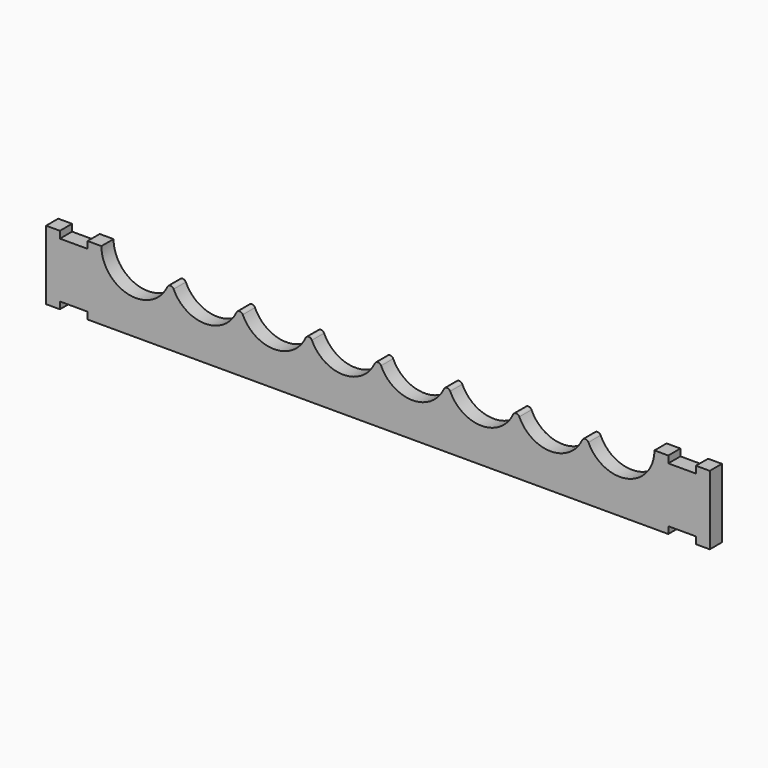
from build123d import *

# Parameters (mm, degrees)
F1_DEPTH = 22


with BuildPart() as f1:
    # F0 (on Front) → F1 (new body)
    with BuildSketch(Plane.XZ):
        with BuildLine():
            Line((460, -50), (480, -50))
            Line((480, -50), (480, 50))
            Line((480, 50), (460, 50))
            Line((460, 50), (460, 40))
            Line((460, 40), (420, 40))
            Line((420, 40), (420, 50))
            Line((420, 50), (400, 50))
            ThreePointArc((400, 50), (360.660036, 1.149579), (304.545455, 29.17011))
            ThreePointArc((304.545455, 29.17011), (300, 32.087122), (295.454545, 29.17011))
            ThreePointArc((295.454545, 29.17011), (250, 0), (204.545455, 29.17011))
            ThreePointArc((204.545455, 29.17011), (200, 32.087122), (195.454545, 29.17011))
            ThreePointArc((195.454545, 29.17011), (150, 0), (104.545455, 29.17011))
            ThreePointArc((104.545455, 29.17011), (100, 32.087122), (95.454545, 29.17011))
            ThreePointArc((95.454545, 29.17011), (50, 0), (4.545455, 29.17011))
            ThreePointArc((4.545455, 29.17011), (0, 32.087122), (-4.545455, 29.17011))
            ThreePointArc((-4.545455, 29.17011), (-50, 0), (-95.454545, 29.17011))
            ThreePointArc((-95.454545, 29.17011), (-100, 32.087122), (-104.545455, 29.17011))
            ThreePointArc((-104.545455, 29.17011), (-150, 0), (-195.454545, 29.17011))
            ThreePointArc((-195.454545, 29.17011), (-200, 32.087122), (-204.545455, 29.17011))
            ThreePointArc((-204.545455, 29.17011), (-250, 0), (-295.454545, 29.17011))
            ThreePointArc((-295.454545, 29.17011), (-300, 32.087122), (-304.545455, 29.17011))
            ThreePointArc((-304.545455, 29.17011), (-360.660036, 1.149579), (-400, 50))
            Line((-400, 50), (-420, 50))
            Line((-420, 50), (-420, 40))
            Line((-420, 40), (-460, 40))
            Line((-460, 40), (-460, 50))
            Line((-460, 50), (-480, 50))
            Line((-480, 50), (-480, -50))
            Line((-480, -50), (-460, -50))
            Line((-460, -50), (-460, -40))
            Line((-460, -40), (-420, -40))
            Line((-420, -40), (-420, -50))
            Line((-420, -50), (420, -50))
            Line((420, -50), (420, -40))
            Line((420, -40), (460, -40))
            Line((460, -40), (460, -50))
        make_face()
    extrude(amount=F1_DEPTH)


solid = f1.part
